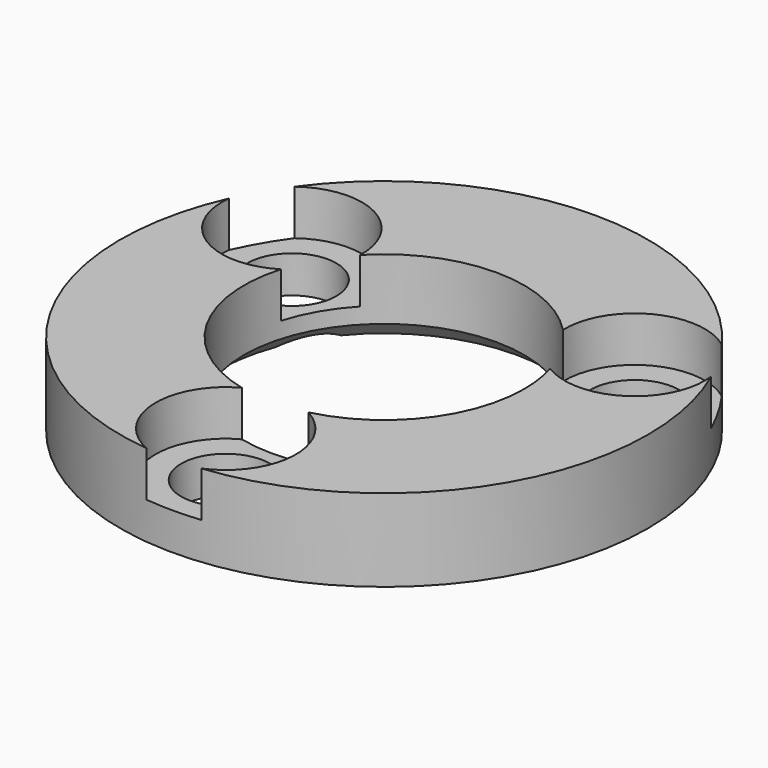
from build123d import *

# Parameters (mm, degrees)
SKETCH005_R         = 4.25
PAD005_DEPTH        = 2.75
CYLINDER_R          = 8.5
CYLINDER_DEPTH      = 11
SKETCH003_R         = 16
SKETCH003_R_2       = 2.7
PAD003_DEPTH        = 5
CUT_PLACEMENT_ANGLE = 180


with BuildPart() as pad009:
    # Sketch005 → Pad005 (new body)
    with BuildSketch(Plane(origin=(40, 0, 0), x_dir=(1, 0, 0), z_dir=(0, 0, 1))):
        with Locations((0, 12)):
            Circle(SKETCH005_R)
        with Locations((-10.392315, -5.999983)):
            Circle(SKETCH005_R)
        with Locations((10.392315, -5.999983)):
            Circle(SKETCH005_R)
    extrude(amount=PAD005_DEPTH)


with BuildPart() as cylindre:
    # Cylinder → Cylinder (new body)
    with BuildSketch(Plane(origin=(40, 0, 0), x_dir=(1, 0, 0), z_dir=(0, 0, 1))):
        Circle(CYLINDER_R)
    extrude(amount=CYLINDER_DEPTH)


with BuildPart() as fusion:
    # Cone → Cone (revolve)
    with BuildSketch(Plane(origin=(40, 0, 2), x_dir=(1, 0, 0), z_dir=(0, -1, 0))):
        Polygon((0, 0), (6.5, 0), (10, 3), (0, 3), align=None)
    revolve(axis=Axis((40, 0, 2), (0, 0, 1)))

    # Fusion: union Cylindre
    add(cylindre.part)


with BuildPart() as wheel:
    # Sketch003 → Pad003 (new body)
    with BuildSketch(Plane(origin=(40, 0, 0), x_dir=(1, 0, 0), z_dir=(0, 0, 1))):
        Circle(SKETCH003_R)
        with Locations((0, 12)):
            Circle(SKETCH003_R_2, mode=Mode.SUBTRACT)
        with Locations((-10.392315, -5.999983)):
            Circle(SKETCH003_R_2, mode=Mode.SUBTRACT)
        with Locations((10.392315, -5.999983)):
            Circle(SKETCH003_R_2, mode=Mode.SUBTRACT)
    extrude(amount=PAD003_DEPTH)

    # Cut002: cut Fusion
    add(fusion.part, mode=Mode.SUBTRACT)

    # Cut: cut Pad009
    add(pad009.part, mode=Mode.SUBTRACT)


with BuildPart() as wheel_1:
    # Cut placement: moved
    add(wheel.part.moved(Location((0, 0, 5))).rotate(Axis((0, 0, 5), (1, 0, 0)), CUT_PLACEMENT_ANGLE))


solid = wheel_1.part
